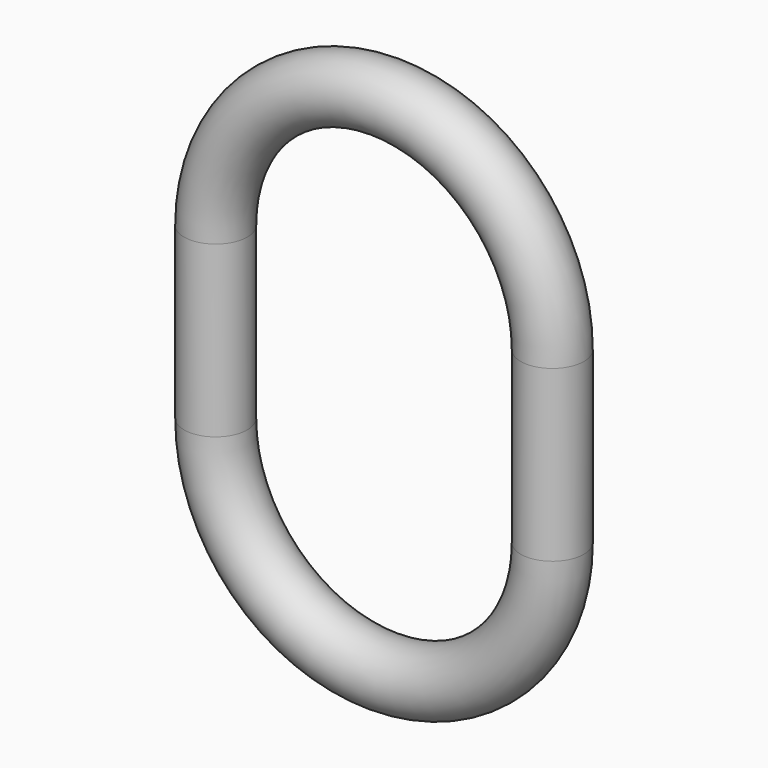
from build123d import *

# Parameters (mm, degrees)
F0_R = 11


with BuildPart() as f2:
    # F2: sweep along a path in F1
    with BuildLine(Plane.XZ) as f2_path:
        Line((47.5, 29.5), (47.5, 0))
        Line((47.5, 0), (47.5, -29.5))
        ThreePointArc((47.5, -29.5), (0, -77), (-47.5, -29.5))
        Line((-47.5, -29.5), (-47.5, 0))
        Line((-47.5, 0), (-47.5, 29.5))
        ThreePointArc((-47.5, 29.5), (0, 77), (47.5, 29.5))
    # F0 (on Top) → F2 (sweep)
    with BuildSketch(Plane.XY):
        with Locations((58.5, 0)):
            Circle(F0_R)
    sweep(path=f2_path.line)


solid = f2.part
